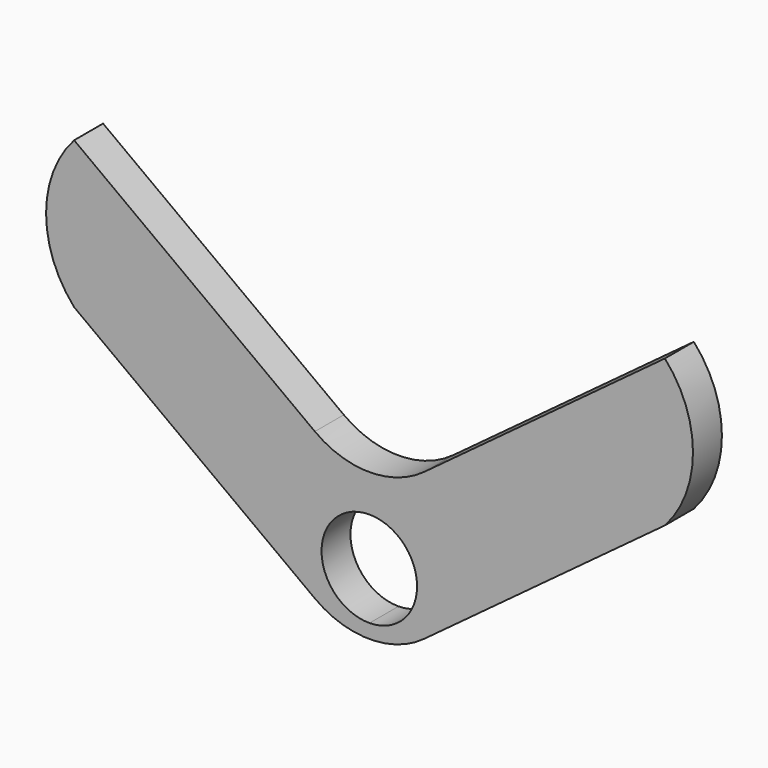
from build123d import *

# Parameters (mm, degrees)
F1_DEPTH = 5
F2_R     = 12.7


with BuildPart() as f1:
    # F0 (on Front) → F1 (new body)
    with BuildSketch(Plane.XZ):
        with BuildLine():
            Line((0, -2.056562), (0, 0))
            Line((0, 0), (-40.835929, 30.216998))
            ThreePointArc((-40.835929, 30.216998), (-44.716703, 20.056998), (-40.835929, 9.896998))
            Line((-40.835929, 9.896998), (0, -20.32))
            Line((0, -20.32), (0, -15.264398))
            ThreePointArc((0, -15.264398), (-6.636931, -8.66048), (0, -2.056562))
        make_face()
        with BuildLine():
            Line((40.835929, 30.216998), (0, 0))
            Line((0, 0), (0, -2.056562))
            ThreePointArc((0, -2.056562), (4.64843, -4.002405), (6.571069, -8.66048))
            ThreePointArc((6.571069, -8.66048), (4.64843, -13.318556), (0, -15.264398))
            Line((0, -15.264398), (0, -20.32))
            Line((0, -20.32), (40.835929, 9.896998))
            ThreePointArc((40.835929, 9.896998), (44.716703, 20.056998), (40.835929, 30.216998))
        make_face()
    extrude(amount=F1_DEPTH)

    # F2
    f2_edges = [f1.edges().sort_by_distance(p)[0] for p in [
        (0, -2.5, -20.32),
        (0, -2.5, 0),
    ]]
    fillet(f2_edges, radius=F2_R)


solid = f1.part
